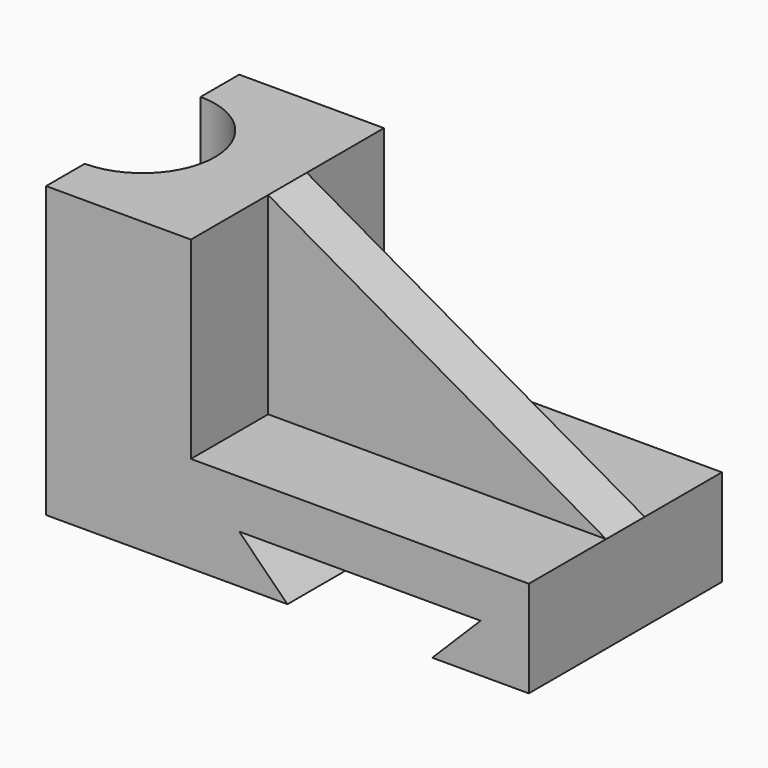
from build123d import *

# Parameters (mm, degrees)
F0_W          = 30
F0_H          = 50
F1_DEPTH      = 60
F0_W_2        = 70
F2_DEPTH      = 20
F4_DEPTH      = 71.1
F6_DEPTH      = 5
F6_DEPTH_BACK = 5
F8_DEPTH      = 205.9


with BuildPart() as f1:
    # F0 (on Top) → F1 (new body)
    with BuildSketch(Plane.XY):
        with Locations((-35, 0)):
            Rectangle(F0_W, F0_H)
    extrude(amount=F1_DEPTH)

    # F0 (on Top) → F2 (join)
    with BuildSketch(Plane.XY):
        with Locations((15, 0)):
            Rectangle(F0_W_2, F0_H)
    extrude(amount=F2_DEPTH)

    # F3 (on face) → F4 (cut)
    with BuildSketch(Plane.XY.offset(60)):
        with BuildLine():
            ThreePointArc((-50, -15), (-39.3933982822, -10.6066017178), (-35, 0))
            ThreePointArc((-35, 0), (-39.3933982822, 10.6066017178), (-50, 15))
            Line((-50, 15), (-50, -15))
        make_face()
    extrude(amount=-F4_DEPTH, mode=Mode.SUBTRACT)

    # F5 (on Front) → F6 (join, two sides)
    with BuildSketch(Plane.XZ) as f6_sk:
        Polygon((-20, 20), (50, 20), (-20, 60), align=None)
    extrude(amount=F6_DEPTH)
    extrude(f6_sk.sketch, amount=-F6_DEPTH_BACK)

    # F7 (on face) → F8 (cut)
    with BuildSketch(Plane.XZ.offset(25)):
        Polygon((0, 0), (30, 0), (40, 10), (-10, 10), align=None)
    extrude(amount=-F8_DEPTH, mode=Mode.SUBTRACT)


solid = f1.part
